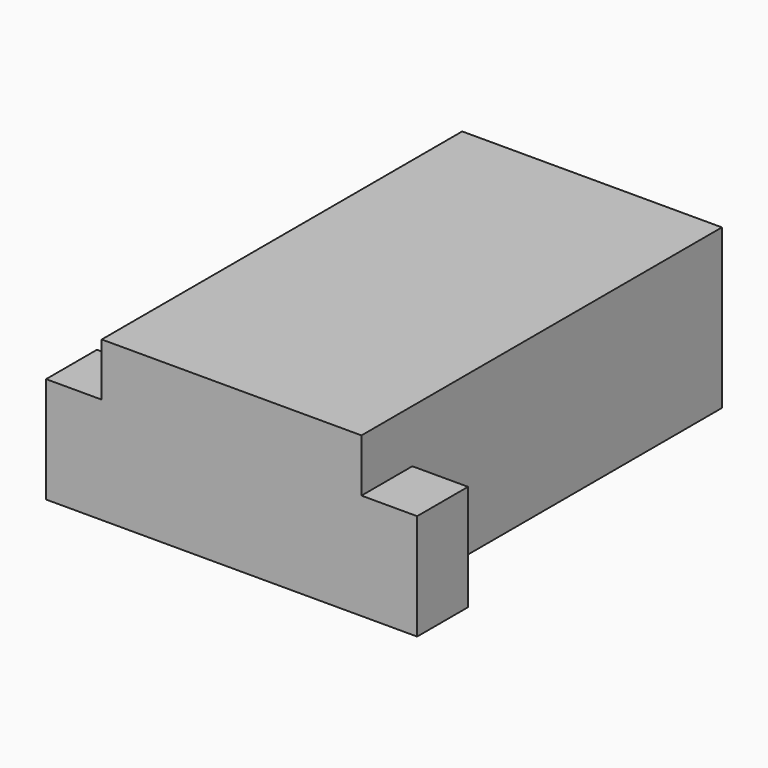
from build123d import *

# Parameters (mm, degrees)
F0_W     = 4.9
F0_H     = 3
F1_DEPTH = 7.3
F2_W     = 1.05
F2_H     = 2
F3_DEPTH = 1.2


with BuildPart() as f1:
    # F0 (on Front) → F1 (new body)
    with BuildSketch(Plane.XZ):
        with Locations((0, -1.5)):
            Rectangle(F0_W, F0_H)
    extrude(amount=-F1_DEPTH)

    # F2 (on face) → F3 (join)
    with BuildSketch(Plane.XZ):
        with Locations((2.975, -2)):
            Rectangle(F2_W, F2_H)
        Polygon((-2.45, 0), (-2.45, -1), (-2.45, -3), (2.45, -3), (2.45, -1), (2.45, 0), align=None)
        with Locations((-2.975, -2)):
            Rectangle(F2_W, F2_H)
    extrude(amount=F3_DEPTH)


solid = f1.part
